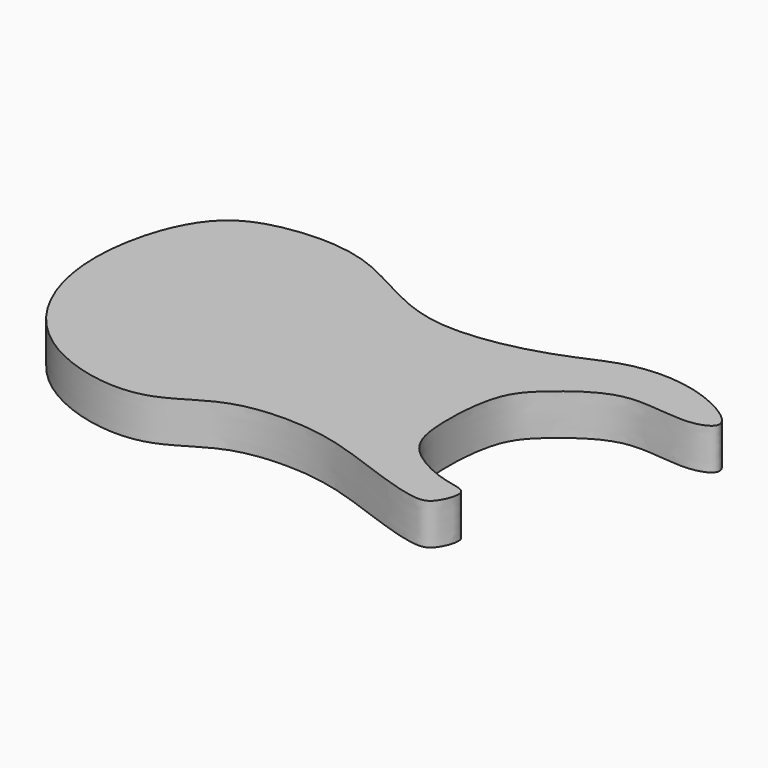
from build123d import *

# Parameters (mm, degrees)
F5_DEPTH = 38.1


with BuildPart() as f5:
    # F4 (on offset) → F5 (new body)
    with BuildSketch(Plane.XY.offset(-9.525)):
        with BuildLine():
            add(Edge.make_bspline(
                [(42.6060371101, 91.2850499153), (7.8221980727, 98.1459074689), (-45.0507420821, 141.270552222), (-129.059875152, 140.5737367426), (-189.8514548731, 115.7745158018), (-220.8582203428, -4.3565392162), (-164.8827881229, -117.805037811), (-45.3305959412, -146.2096949258), (4.5101162507, -96.6323653493), (82.9751788925, -94.3924112601), (135.8855265702, -110.3367359814), (210.661037642, -139.5864202281), (225.7317287, -129.1121848334), (235.4080735811, -102.7193866532), (207.1650373799, -101.2209131151), (157.4660036331, -77.4871974901), (149.2692905136, -32.8367565604), (153.7058431828, 30.7187237235), (180.8819186852, 57.3819541841), (227.9046678051, 93.0164028238), (285.6889769457, 76.3522276785), (322.8126340742, 93.0572138919), (265.5596488489, 128.8922780732), (198.9539465155, 128.8991857046), (152.298481538, 101.540383297), (78.637687997, 84.1780706112), (42.6060371101, 91.2850499153)],
                knots=[0, 0, 0, 0, 0.0544798599, 0.1023179668, 0.1435660963, 0.2006323886, 0.2596574474, 0.3150614725, 0.3584680982, 0.4041270958, 0.4467080214, 0.4933847294, 0.5145954734, 0.5389104299, 0.5639992318, 0.6030024702, 0.638737027, 0.6807683187, 0.7137178843, 0.7536927868, 0.7955678451, 0.8212868925, 0.8593175383, 0.9036557499, 0.9435657665, 1, 1, 1, 1], degree=3))
        make_face()
    extrude(amount=-F5_DEPTH)


solid = f5.part
